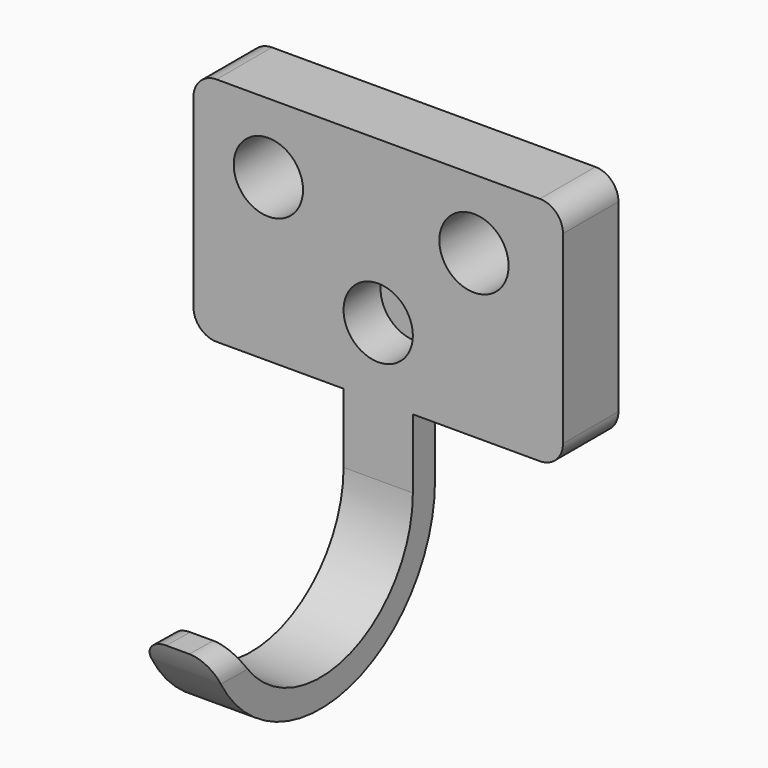
from build123d import *

# Parameters (mm, degrees)
F1_DEPTH = 50.8
F0_W     = 7.62
F0_H     = 19.05
F2_DEPTH = 9.525
F3_R     = 6.35
F4_R     = 9.525
F5_DEPTH = 25.4
F6_DEPTH = 12.7


with BuildPart() as f1:
    # F0 (on Right) → F1 (new body, symmetric)
    with BuildSketch(Plane.YZ):
        Polygon((0, 63.5), (0, 0), (7.62, 0), (19.05, 0), (19.05, 63.5), align=None)
    extrude(amount=F1_DEPTH, both=True)

    # F0 (on Right) → F2 (join, symmetric)
    with BuildSketch(Plane.YZ):
        Polygon((0, 63.5), (0, 0), (7.62, 0), (19.05, 0), (19.05, 63.5), align=None)
        with Locations((3.81, -9.525)):
            Rectangle(F0_W, F0_H)
        with BuildLine():
            Line((7.62, -19.05), (0, -19.05))
            ThreePointArc((0, -19.05), (-25.016468, -50.077762), (-60.643908, -32.21072))
            Line((-60.643908, -32.21072), (-68.901188, -32.0802))
            ThreePointArc((-68.901188, -32.0802), (-25.141119, -57.861333), (7.62, -19.05))
        make_face()
    extrude(amount=F2_DEPTH, both=True)

    # F3
    f3_edges = [f1.edges().sort_by_distance(p)[0] for p in [
        (9.525, -64.772548, -32.14546),
        (-9.525, -64.772548, -32.14546),
        (50.8, 9.525, 0),
        (50.8, 9.525, 63.5),
        (-50.8, 9.525, 63.5),
        (-50.8, 9.525, 0),
    ]]
    fillet(f3_edges, radius=F3_R)

    # F4 (on face) → F5 (cut)
    with BuildSketch(Plane.XZ):
        with Locations((-30.197322, 44.45)):
            Circle(F4_R)
        with BuildLine():
            ThreePointArc((35.850874, 44.45), (26.325874, 53.975), (16.800874, 44.45))
            ThreePointArc((16.800874, 44.45), (26.325874, 34.925), (35.850874, 44.45))
        make_face()
    extrude(amount=-F5_DEPTH, mode=Mode.SUBTRACT)

    # F4 (on face) → F6 (cut)
    with BuildSketch(Plane.XZ):
        with Locations((-30.197322, 44.45)):
            Circle(F4_R)
        with BuildLine():
            ThreePointArc((35.850874, 44.45), (26.325874, 53.975), (16.800874, 44.45))
            ThreePointArc((16.800874, 44.45), (26.325874, 34.925), (35.850874, 44.45))
        make_face()
        with Locations((0, 19.05)):
            Circle(F4_R)
    extrude(amount=-F6_DEPTH, mode=Mode.SUBTRACT)


solid = f1.part
